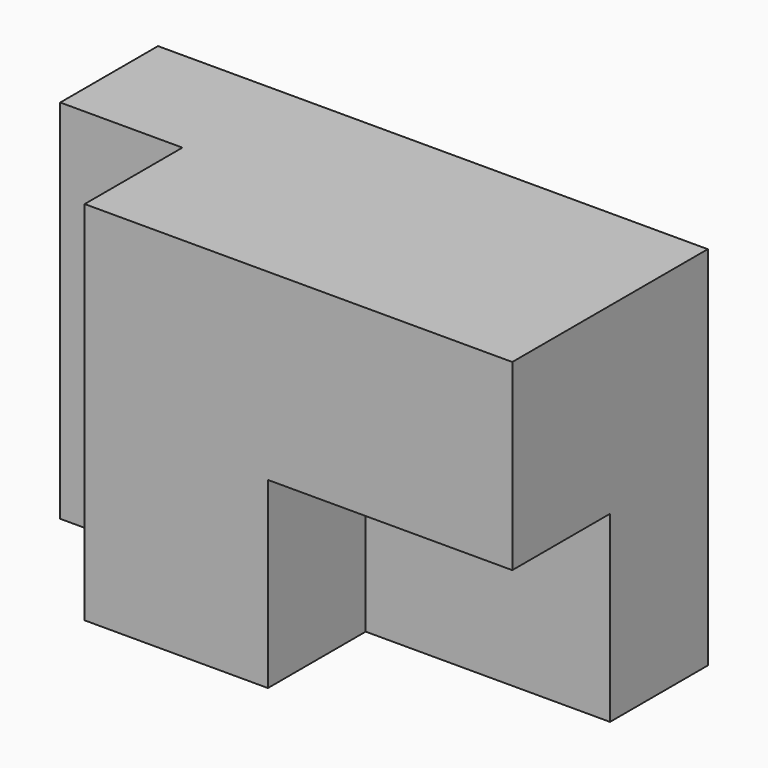
from build123d import *

# Parameters (mm, degrees)
F0_W     = 114.3
F0_H     = 76.2
F1_DEPTH = 25.4
F3_DEPTH = 25.4


with BuildPart() as f1:
    # F0 (on Front) → F1 (new body)
    with BuildSketch(Plane.XZ):
        with Locations((57.15, 38.1)):
            Rectangle(F0_W, F0_H)
    extrude(amount=F1_DEPTH)

    # F2 (on face) → F3 (join)
    with BuildSketch(Plane.XZ.offset(25.4)):
        Polygon((114.3, 38.1), (114.3, 76.2), (25.4, 76.2), (25.4, 0), (63.5, 0), (63.5, 38.1), align=None)
    extrude(amount=F3_DEPTH)


solid = f1.part
